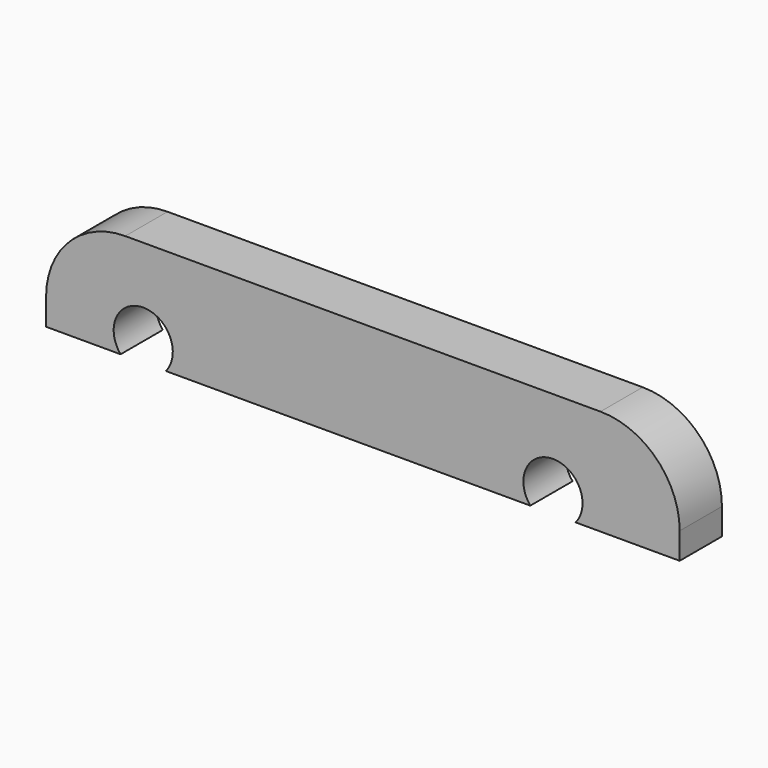
from build123d import *

# Parameters (mm, degrees)
F1_DEPTH = 6.35
F2_R     = 9.525


with BuildPart() as f1:
    # F0 (on Front) → F1 (new body)
    with BuildSketch(Plane.XZ):
        with BuildLine():
            Line((25.583847, -6.35), (38.1, -6.35))
            Line((38.1, -6.35), (38.1, 6.35))
            Line((38.1, 6.35), (-38.1, 6.35))
            Line((-38.1, 6.35), (-38.1, -6.35))
            Line((-38.1, -6.35), (-29.139847, -6.35))
            ThreePointArc((-29.139847, -6.35), (-26.416, -0.508), (-23.692153, -6.35))
            Line((-23.692153, -6.35), (20.136153, -6.35))
            ThreePointArc((20.136153, -6.35), (22.86, -0.508), (25.583847, -6.35))
        make_face()
    extrude(amount=F1_DEPTH)

    # F2
    f2_edges = [f1.edges().sort_by_distance(p)[0] for p in [
        (-38.1, -3.175, 6.35),
        (38.1, -3.175, 6.35),
    ]]
    fillet(f2_edges, radius=F2_R)


solid = f1.part
